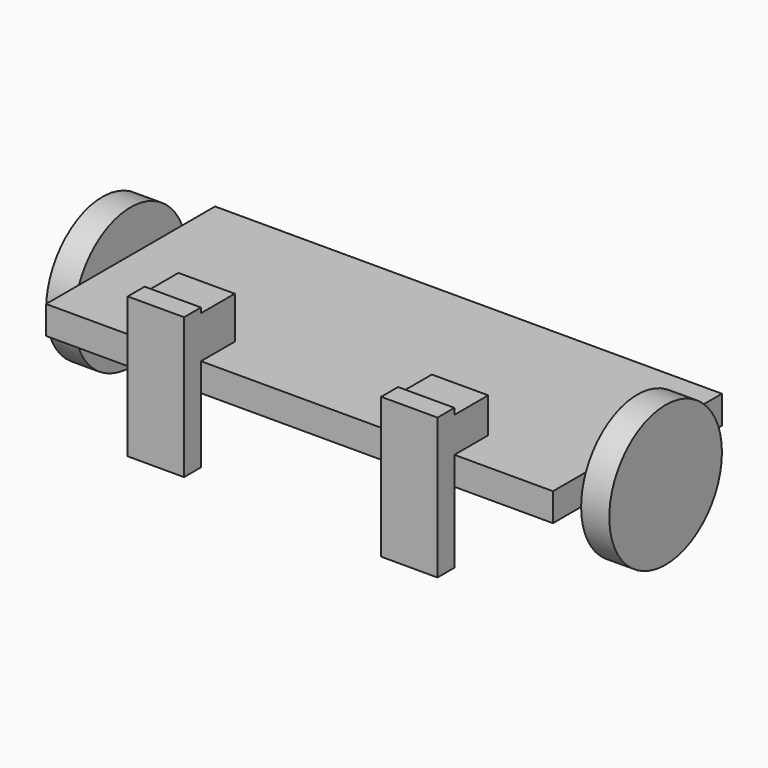
from build123d import *

# Parameters (mm, degrees)
F0_W      = 914.4
F0_H      = 381
F1_DEPTH  = 50.8
F2_R      = 127
F3_DEPTH  = 50.8
F4_R      = 127
F5_DEPTH  = 50.8
F6_W      = 101.6
F6_H      = 254
F7_DEPTH  = 38.1
F8_W      = 101.6
F8_H      = 76.2
F9_DEPTH  = 76.2
F10_W     = 101.6
F10_H     = 76.2
F11_DEPTH = 63.5


with BuildPart() as f1:
    # F0 (on Top) → F1 (new body)
    with BuildSketch(Plane.XY):
        with Locations((1.296762, -93.692474)):
            Rectangle(F0_W, F0_H)
    extrude(amount=F1_DEPTH)

    # F2 (on face) → F3 (join)
    with BuildSketch(Plane.YZ.offset(458.496762)):
        with Locations((-93.692474, 0)):
            Circle(F2_R)
    extrude(amount=F3_DEPTH)

    # F4 (on face) → F5 (join)
    with BuildSketch(Plane(origin=(-455.903238, 0, 0), x_dir=(0, -1, 0), z_dir=(-1, 0, 0))):
        with Locations((93.692474, 0)):
            Circle(F4_R)
    extrude(amount=F5_DEPTH)

    # F6 (on face) → F7 (join)
    with BuildSketch(Plane.XZ.offset(284.192474)):
        with Locations((-227.303238, 9.129721)):
            Rectangle(F6_W, F6_H)
        with Locations((229.896762, -1.581132)):
            Rectangle(F6_W, F6_H)
    extrude(amount=F7_DEPTH)

    # F8 (on face) → F9 (join)
    with BuildSketch(Plane.XY.offset(50.8)):
        with Locations((-227.303238, -246.092474)):
            Rectangle(F8_W, F8_H)
    extrude(amount=F9_DEPTH)

    # F10 (on face) → F11 (join)
    with BuildSketch(Plane.XY.offset(50.8)):
        with Locations((229.896762, -246.092474)):
            Rectangle(F10_W, F10_H)
    extrude(amount=F11_DEPTH)


solid = f1.part
